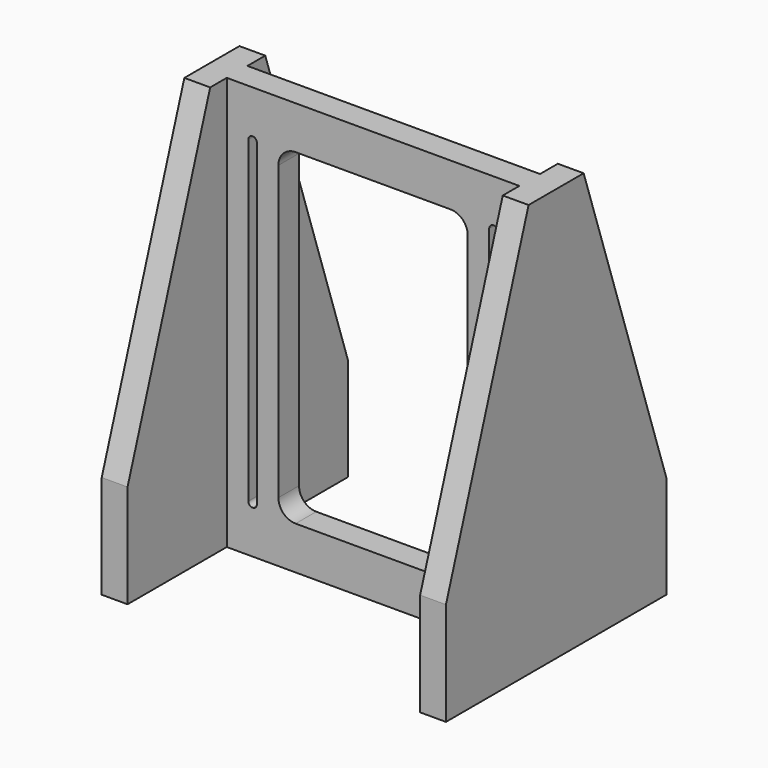
from build123d import *

# Parameters (mm, degrees)
F1_DEPTH = 254
F2_W     = 215.9
F2_H     = 92.64379
F2_H_2   = 91.50621
F3_DEPTH = 304.801
F5_DEPTH = 111.69479
F7_DEPTH = 111.69479


with BuildPart() as f1:
    # F0 (on Right) → F1 (new body)
    with BuildSketch(Plane.YZ):
        Polygon((25.96879, 119.263514), (-24.83121, 119.263514), (-101.03121, -109.336486), (-101.03121, -185.536486), (102.16879, -185.536486), (102.16879, -109.336486), align=None)
    extrude(amount=F1_DEPTH)

    # F2 (on face) → F3 (cut, through all)
    with BuildSketch(Plane.XY.offset(119.263514)):
        with Locations((127, 55.846895)):
            Rectangle(F2_W, F2_H)
        with Locations((127, -55.278105)):
            Rectangle(F2_W, F2_H_2)
    extrude(amount=-F3_DEPTH, mode=Mode.SUBTRACT)

    # F4 (on face) → F5 (cut, through all)
    with BuildSketch(Plane.XZ.offset(9.525)):
        with BuildLine():
            Line((184.15, 87.513514), (69.85, 87.513514))
            ThreePointArc((69.85, 87.513514), (60.869744, 83.79377), (57.15, 74.813514))
            Line((57.15, 74.813514), (57.15, -141.086486))
            ThreePointArc((57.15, -141.086486), (60.869744, -150.066742), (69.85, -153.786486))
            Line((69.85, -153.786486), (184.15, -153.786486))
            ThreePointArc((184.15, -153.786486), (193.130256, -150.066742), (196.85, -141.086486))
            Line((196.85, -141.086486), (196.85, 74.813514))
            ThreePointArc((196.85, 74.813514), (193.130256, 83.79377), (184.15, 87.513514))
        make_face()
    extrude(amount=-F5_DEPTH, mode=Mode.SUBTRACT)

    # F6 (on face) → F7 (cut, through all)
    with BuildSketch(Plane.XZ.offset(9.525)):
        with BuildLine():
            ThreePointArc((38.1, 87.513514), (35.854936, 86.583578), (34.925, 84.338514))
            Line((34.925, 84.338514), (34.925, -150.611486))
            ThreePointArc((34.925, -150.611486), (35.854936, -152.85655), (38.1, -153.786486))
            ThreePointArc((38.1, -153.786486), (40.345064, -152.85655), (41.275, -150.611486))
            Line((41.275, -150.611486), (41.275, 84.338514))
            ThreePointArc((41.275, 84.338514), (40.345064, 86.583578), (38.1, 87.513514))
        make_face()
        with BuildLine():
            ThreePointArc((215.9, -153.786486), (218.145064, -152.85655), (219.075, -150.611486))
            Line((219.075, -150.611486), (219.075, 84.338514))
            ThreePointArc((219.075, 84.338514), (218.145064, 86.583578), (215.9, 87.513514))
            ThreePointArc((215.9, 87.513514), (213.654936, 86.583578), (212.725, 84.338514))
            Line((212.725, 84.338514), (212.725, -150.611486))
            ThreePointArc((212.725, -150.611486), (213.654936, -152.85655), (215.9, -153.786486))
        make_face()
    extrude(amount=-F7_DEPTH, mode=Mode.SUBTRACT)


solid = f1.part
